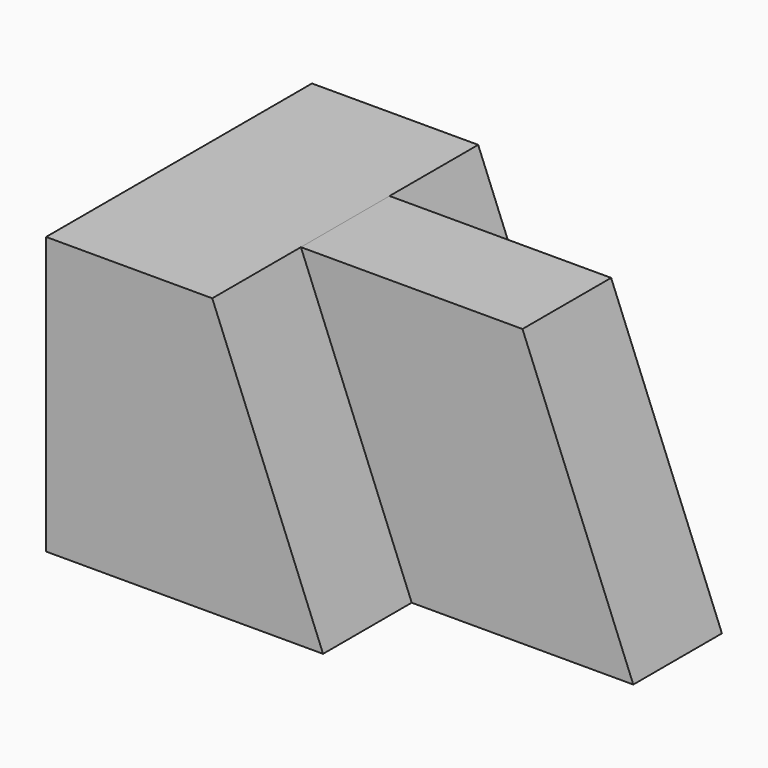
from build123d import *

# Parameters (mm, degrees)
F1_DEPTH = 38.1
F2_W     = 25.4
F2_H     = 12.7
F3_DEPTH = 31.75
F5_DEPTH = 12.7


with BuildPart() as f1:
    # F0 (on Front) → F1 (new body)
    with BuildSketch(Plane.XZ):
        Polygon((-31.75, 0), (0, 0), (-12.7, 31.75), (-31.75, 31.75), align=None)
    extrude(amount=F1_DEPTH)


with BuildPart() as f3:
    # F2 (on face) → F3 (new body)
    with BuildSketch(Plane.XY.offset(31.75)):
        with Locations((0, -19.05)):
            Rectangle(F2_W, F2_H)
    extrude(amount=-F3_DEPTH)

    # F4 (on face) → F5 (join)
    with BuildSketch(Plane.XZ.offset(25.4)):
        Polygon((25.4, 0), (12.7, 31.75), (12.7, 0), align=None)
    extrude(amount=-F5_DEPTH)


solid = Compound([f1.part, f3.part])
